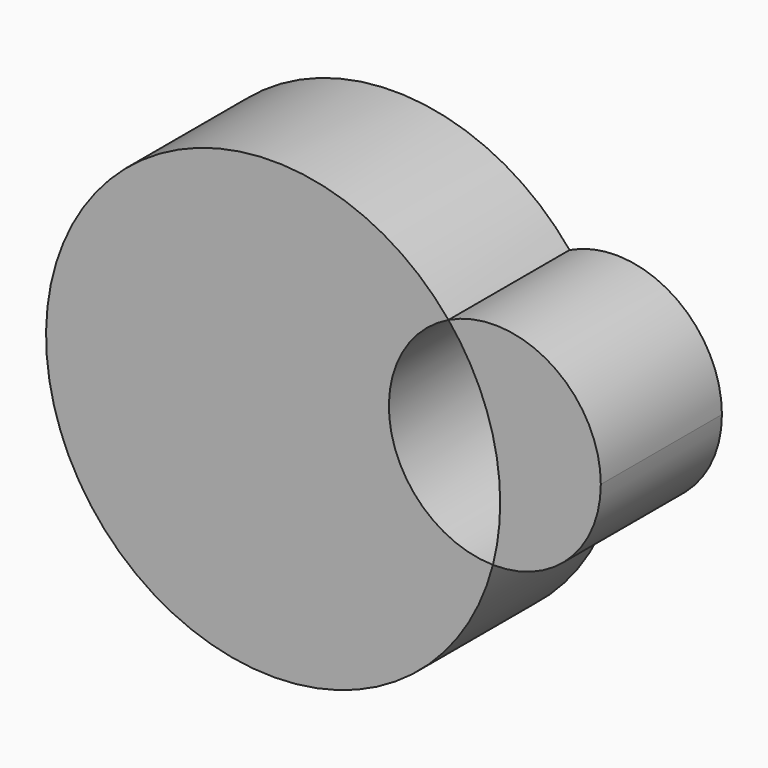
from build123d import *

# Parameters (mm, degrees)
F1_DEPTH = 25


with BuildPart() as f1:
    # F0 (on Front) → F1 (new body)
    with BuildSketch(Plane.XZ):
        with BuildLine():
            ThreePointArc((36.300151, -9.410048), (19.529391, 4.313105), (28.960565, 23.823008))
            ThreePointArc((28.960565, 23.823008), (-36.617609, -8.087072), (36.300151, -9.410048))
        make_face()
        with BuildLine():
            ThreePointArc((28.960565, 23.823008), (35.300646, 12.653632), (37.5, 0))
            ThreePointArc((37.5, 0), (37.198828, -4.743117), (36.300151, -9.410048))
            ThreePointArc((36.300151, -9.410048), (48.879226, -4.39903), (54.117609, 8.087072))
            ThreePointArc((54.117609, 8.087072), (45.898011, 22.923653), (28.960565, 23.823008))
        make_face()
    extrude(amount=F1_DEPTH)


solid = f1.part
